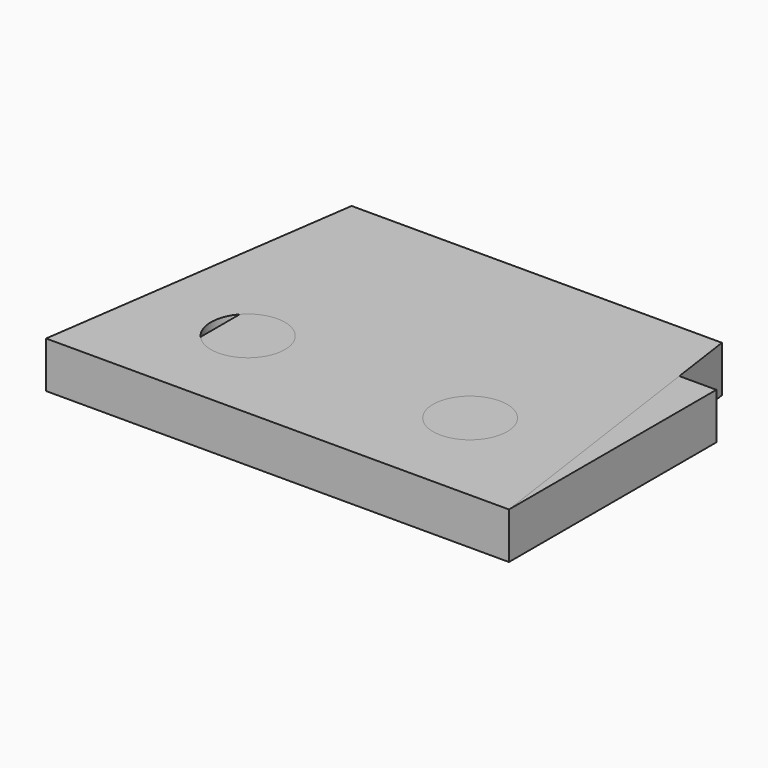
from build123d import *

# Parameters (mm, degrees)
F0_W     = 200
F0_H     = 140
F1_DEPTH = 25
F2_R     = 20
F3_DEPTH = 25


with BuildPart() as f1:
    # F0 (on Top) → F1 (new body)
    with BuildSketch(Plane.XY):
        with Locations((-100, 70)):
            Rectangle(F0_W, F0_H)
    extrude(amount=F1_DEPTH)


with BuildPart() as f3:
    # F2 (on Top) → F3 (new body)
    with BuildSketch(Plane.XY):
        Polygon((-250, 0), (0, 0), (-25, 175), (-225, 175), align=None)
        with Locations((-185, 55)):
            Circle(F2_R, mode=Mode.SUBTRACT)
        with Locations((-65, 55)):
            Circle(F2_R, mode=Mode.SUBTRACT)
    extrude(amount=F3_DEPTH)


solid = Compound([f1.part, f3.part])
